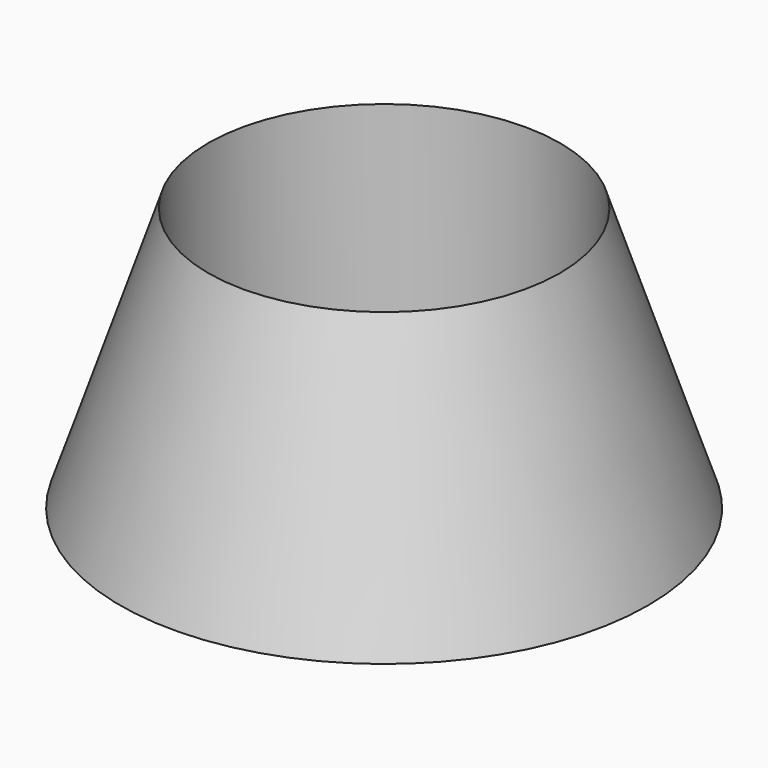
from build123d import *

# Parameters (mm, degrees)
F1_FACE_R = 100
F2_DEPTH  = 225


with BuildPart() as f1:
    # F0 (on Front) → F1 (revolve)
    with BuildSketch(Plane.XZ):
        Polygon((100, 150), (0, 150), (0, 0), (150, 0), align=None)
    revolve(axis=Axis((0, 0, 75), (0, 0, -1)))

    # F1_face (on face) → F2 (cut)
    with BuildSketch(Plane.XY.offset(150)):
        Circle(F1_FACE_R)
    extrude(amount=-F2_DEPTH, mode=Mode.SUBTRACT)


solid = f1.part
